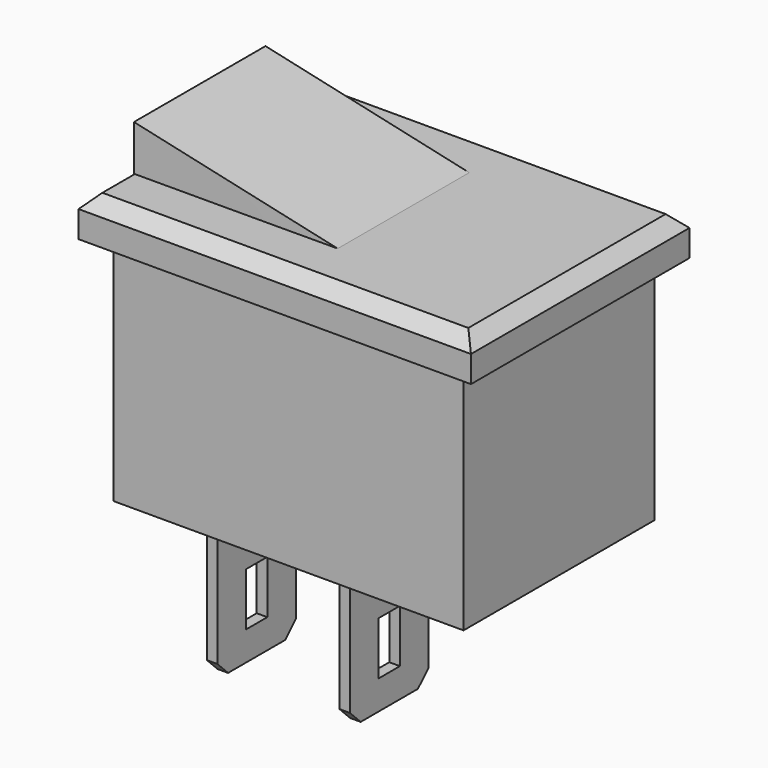
from build123d import *

# Parameters (mm, degrees)
SKETCH_W        = 14.8
SKETCH_H        = 10.3
PAD_DEPTH       = 1.5
CHAMFER_SIZE    = 0.5
SKETCH002_W     = 13.8
SKETCH002_H     = 6.2
SKETCH001_W     = 13.8
SKETCH001_H     = 6.28
SKETCH003_W     = 13.2
SKETCH003_H     = 9
PAD001_DEPTH    = 8.7
SKETCH004_W     = 0.4
SKETCH004_H     = 3.7
PAD002_DEPTH    = 6.4
SKETCH005_W     = 1
SKETCH005_H     = 2
POCKET_DEPTH    = 12.601
CHAMFER001_SIZE = 0.5


with BuildPart() as part:
    # Sketch → Pad (new body)
    with BuildSketch(Plane.XY):
        Rectangle(SKETCH_W, SKETCH_H)
    extrude(amount=PAD_DEPTH)

    # Chamfer
    chamfer_edges = [part.edges().sort_by_distance(p)[0] for p in [
        (0, 5.15, 1.5),
        (7.4, 0, 1.5),
        (0, -5.15, 1.5),
        (-7.4, 0, 1.5),
    ]]
    chamfer(chamfer_edges, length=CHAMFER_SIZE)

    # Sketch002 (on DatumPlane) → AdditiveLoft section 0
    with BuildSketch(Plane(origin=(6.523704, 0, 0.21644), x_dir=(0.976296, 0, -0.21644), z_dir=(0.21644, 0, 0.976296))):
        with Locations((-6.9, 0)):
            Rectangle(SKETCH002_W, SKETCH002_H)
    # Sketch001 → AdditiveLoft section 1
    with BuildSketch(Plane.XY):
        Rectangle(SKETCH001_W, SKETCH001_H)
    loft()

    # Sketch003 → Pad001 (join)
    with BuildSketch(Plane.XY):
        Rectangle(SKETCH003_W, SKETCH003_H)
    extrude(amount=-PAD001_DEPTH)

    # Sketch004 (on DatumPlane) → Pad002 (join)
    with BuildSketch(Plane(origin=(0, 0, -8.7), x_dir=(1, 0, 0), z_dir=(0, 0, -1))):
        with Locations((-5, 0)):
            Rectangle(SKETCH004_W, SKETCH004_H)
        Rectangle(SKETCH004_W, SKETCH004_H)
    extrude(amount=PAD002_DEPTH)

    # Sketch005 (on DatumPlane) → Pocket (cut, through all)
    with BuildSketch(Plane(origin=(-5.2, 0, 0), x_dir=(0, -1, 0), z_dir=(-1, 0, 0))):
        with Locations((0, -13)):
            Rectangle(SKETCH005_W, SKETCH005_H)
    extrude(amount=-POCKET_DEPTH, mode=Mode.SUBTRACT)

    # Chamfer001
    chamfer001_edges = [part.edges().sort_by_distance(p)[0] for p in [
        (-5, -1.85, -15.1),
        (0, -1.85, -15.1),
        (0, 1.85, -15.1),
        (-5, 1.85, -15.1),
    ]]
    chamfer(chamfer001_edges, length=CHAMFER001_SIZE)


solid = part.part
